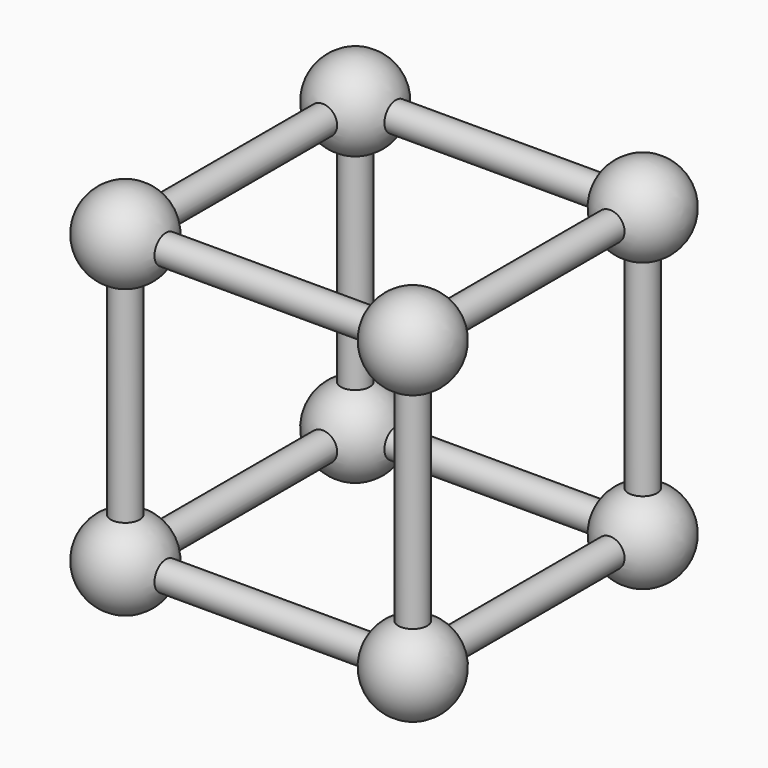
from build123d import *

# Parameters (mm, degrees)
CYLINDER_R        = 0.5
CYLINDER_DEPTH    = 10
CYLINDER001_R     = 0.5
CYLINDER001_DEPTH = 10
CYLINDER002_R     = 0.5
CYLINDER002_DEPTH = 10
CYLINDER003_R     = 0.5
CYLINDER003_DEPTH = 10
CYLINDER004_R     = 0.5
CYLINDER004_DEPTH = 10
CYLINDER005_R     = 0.5
CYLINDER005_DEPTH = 10
CYLINDER006_R     = 0.5
CYLINDER006_DEPTH = 10
CYLINDER007_R     = 0.5
CYLINDER007_DEPTH = 10
CYLINDER008_R     = 0.5
CYLINDER008_DEPTH = 10
CYLINDER009_R     = 0.5
CYLINDER009_DEPTH = 10
CYLINDER010_R     = 0.5
CYLINDER010_DEPTH = 10
CYLINDER011_R     = 0.5
CYLINDER011_DEPTH = 10


with BuildPart() as sphere001:
    # Sphere001 → Sphere001 (revolve)
    with BuildSketch(Plane.XZ.offset(-10)):
        with BuildLine():
            ThreePointArc((0, -1.5), (1.5, 0), (0, 1.5))
            Line((0, 1.5), (0, -1.5))
        make_face()
    revolve(axis=Axis((0, 10, 0), (0, 0, 1)))


with BuildPart() as sphere002:
    # Sphere002 → Sphere002 (revolve)
    with BuildSketch(Plane(origin=(10, 10, 0), x_dir=(1, 0, 0), z_dir=(0, -1, 0))):
        with BuildLine():
            ThreePointArc((0, -1.5), (1.5, 0), (0, 1.5))
            Line((0, 1.5), (0, -1.5))
        make_face()
    revolve(axis=Axis((10, 10, 0), (0, 0, 1)))


with BuildPart() as sphere003:
    # Sphere003 → Sphere003 (revolve)
    with BuildSketch(Plane(origin=(10, 0, 0), x_dir=(1, 0, 0), z_dir=(0, -1, 0))):
        with BuildLine():
            ThreePointArc((0, -1.5), (1.5, 0), (0, 1.5))
            Line((0, 1.5), (0, -1.5))
        make_face()
    revolve(axis=Axis((10, 0, 0), (0, 0, 1)))


with BuildPart() as sphere004:
    # Sphere004 → Sphere004 (revolve)
    with BuildSketch(Plane(origin=(0, 0, 10), x_dir=(1, 0, 0), z_dir=(0, -1, 0))):
        with BuildLine():
            ThreePointArc((0, -1.5), (1.5, 0), (0, 1.5))
            Line((0, 1.5), (0, -1.5))
        make_face()
    revolve(axis=Axis((0, 0, 10), (0, 0, 1)))


with BuildPart() as sphere005:
    # Sphere005 → Sphere005 (revolve)
    with BuildSketch(Plane(origin=(0, 10, 10), x_dir=(1, 0, 0), z_dir=(0, -1, 0))):
        with BuildLine():
            ThreePointArc((0, -1.5), (1.5, 0), (0, 1.5))
            Line((0, 1.5), (0, -1.5))
        make_face()
    revolve(axis=Axis((0, 10, 10), (0, 0, 1)))


with BuildPart() as sphere006:
    # Sphere006 → Sphere006 (revolve)
    with BuildSketch(Plane(origin=(10, 10, 10), x_dir=(1, 0, 0), z_dir=(0, -1, 0))):
        with BuildLine():
            ThreePointArc((0, -1.5), (1.5, 0), (0, 1.5))
            Line((0, 1.5), (0, -1.5))
        make_face()
    revolve(axis=Axis((10, 10, 10), (0, 0, 1)))


with BuildPart() as sphere007:
    # Sphere007 → Sphere007 (revolve)
    with BuildSketch(Plane(origin=(10, 0, 10), x_dir=(1, 0, 0), z_dir=(0, -1, 0))):
        with BuildLine():
            ThreePointArc((0, -1.5), (1.5, 0), (0, 1.5))
            Line((0, 1.5), (0, -1.5))
        make_face()
    revolve(axis=Axis((10, 0, 10), (0, 0, 1)))


with BuildPart() as cylinder:
    # Cylinder → Cylinder (new body)
    with BuildSketch(Plane(origin=(0, 0, 0), x_dir=(1, 0, 0), z_dir=(0, 1, 0))):
        Circle(CYLINDER_R)
    extrude(amount=CYLINDER_DEPTH)


with BuildPart() as cylinder001:
    # Cylinder001 → Cylinder001 (new body)
    with BuildSketch(Plane(origin=(0, 0, 10), x_dir=(1, 0, 0), z_dir=(0, 1, 0))):
        Circle(CYLINDER001_R)
    extrude(amount=CYLINDER001_DEPTH)


with BuildPart() as cylinder002:
    # Cylinder002 → Cylinder002 (new body)
    with BuildSketch(Plane.XY):
        Circle(CYLINDER002_R)
    extrude(amount=CYLINDER002_DEPTH)


with BuildPart() as cylinder003:
    # Cylinder003 → Cylinder003 (new body)
    with BuildSketch(Plane(origin=(0, 10, 0), x_dir=(0, 0, -1), z_dir=(1, 0, 0))):
        Circle(CYLINDER003_R)
    extrude(amount=CYLINDER003_DEPTH)


with BuildPart() as cylinder004:
    # Cylinder004 → Cylinder004 (new body)
    with BuildSketch(Plane(origin=(0, 10, 10), x_dir=(0, 0, -1), z_dir=(1, 0, 0))):
        Circle(CYLINDER004_R)
    extrude(amount=CYLINDER004_DEPTH)


with BuildPart() as cylinder005:
    # Cylinder005 → Cylinder005 (new body)
    with BuildSketch(Plane(origin=(0, 10, 0), x_dir=(1, 0, 0), z_dir=(0, 0, 1))):
        Circle(CYLINDER005_R)
    extrude(amount=CYLINDER005_DEPTH)


with BuildPart() as cylinder006:
    # Cylinder006 → Cylinder006 (new body)
    with BuildSketch(Plane(origin=(10, 10, 0), x_dir=(1, 0, 0), z_dir=(0, -1, 0))):
        Circle(CYLINDER006_R)
    extrude(amount=CYLINDER006_DEPTH)


with BuildPart() as cylinder007:
    # Cylinder007 → Cylinder007 (new body)
    with BuildSketch(Plane(origin=(10, 10, 10), x_dir=(1, 0, 0), z_dir=(0, -1, 0))):
        Circle(CYLINDER007_R)
    extrude(amount=CYLINDER007_DEPTH)


with BuildPart() as cylinder008:
    # Cylinder008 → Cylinder008 (new body)
    with BuildSketch(Plane(origin=(10, 10, 0), x_dir=(1, 0, 0), z_dir=(0, 0, 1))):
        Circle(CYLINDER008_R)
    extrude(amount=CYLINDER008_DEPTH)


with BuildPart() as cylinder009:
    # Cylinder009 → Cylinder009 (new body)
    with BuildSketch(Plane.ZY.offset(-10)):
        Circle(CYLINDER009_R)
    extrude(amount=CYLINDER009_DEPTH)


with BuildPart() as cylinder010:
    # Cylinder010 → Cylinder010 (new body)
    with BuildSketch(Plane(origin=(10, 0, 10), x_dir=(0, 0, 1), z_dir=(-1, 0, 0))):
        Circle(CYLINDER010_R)
    extrude(amount=CYLINDER010_DEPTH)


with BuildPart() as cylinder011:
    # Cylinder011 → Cylinder011 (new body)
    with BuildSketch(Plane(origin=(10, 0, 0), x_dir=(1, 0, 0), z_dir=(0, 0, 1))):
        Circle(CYLINDER011_R)
    extrude(amount=CYLINDER011_DEPTH)


with BuildPart() as fusion:
    # Sphere → Sphere (revolve)
    with BuildSketch(Plane.XZ):
        with BuildLine():
            ThreePointArc((0, -1.5), (1.5, 0), (0, 1.5))
            Line((0, 1.5), (0, -1.5))
        make_face()
    revolve(axis=Axis((0, 0, 0), (0, 0, 1)))

    # Fusion: union Sphere001, Sphere002, Sphere003, Sphere004, Sphere005, Sphere006, Sphere007, Cylinder, Cylinder001, Cylinder002, Cylinder003, Cylinder004, Cylinder005, Cylinder006, Cylinder007, Cylinder008, Cylinder009, Cylinder010, Cylinder011
    add(sphere001.part)
    add(sphere002.part)
    add(sphere003.part)
    add(sphere004.part)
    add(sphere005.part)
    add(sphere006.part)
    add(sphere007.part)
    add(cylinder.part)
    add(cylinder001.part)
    add(cylinder002.part)
    add(cylinder003.part)
    add(cylinder004.part)
    add(cylinder005.part)
    add(cylinder006.part)
    add(cylinder007.part)
    add(cylinder008.part)
    add(cylinder009.part)
    add(cylinder010.part)
    add(cylinder011.part)


solid = fusion.part
